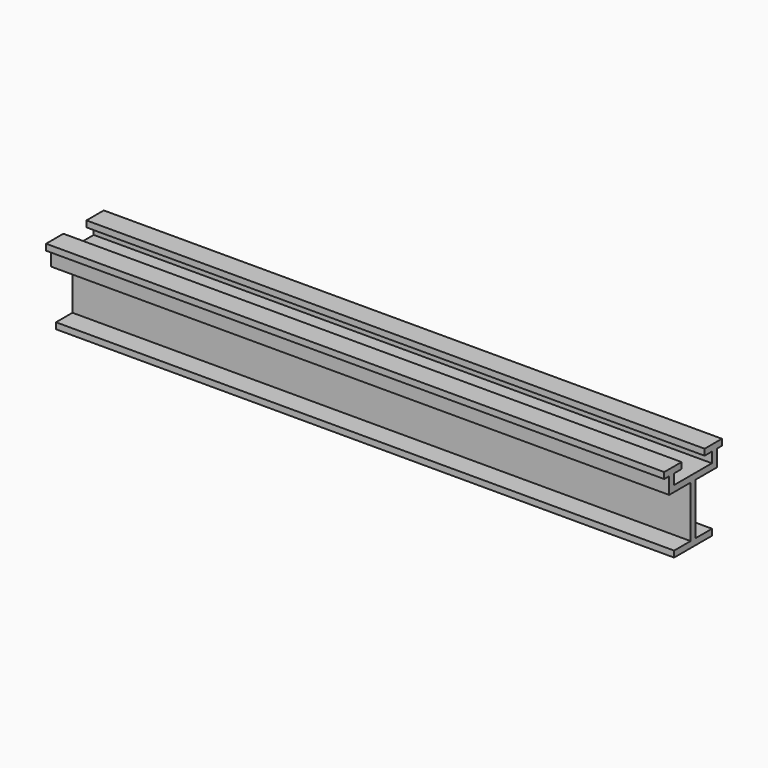
from build123d import *

# Parameters (mm, degrees)
F1_DEPTH      = 150
F1_DEPTH_BACK = 150


with BuildPart() as f1:
    # F0 (on Right) → F1 (new body, two sides)
    with BuildSketch(Plane.YZ) as f1_sk:
        Polygon((-11.5, -1.5), (11.5, -1.5), (11.5, 1.5), (1.5, 1.5), (1.5, 26.5), (14.5, 26.5), (14.5, 29.5), (14.5, 34.5), (17.5, 34.5), (17.5, 37.5), (11.401065, 37.5), (7, 37.5), (7, 34.5), (11.401065, 34.5), (11.401065, 29.5), (-11.462442, 29.5), (-11.462442, 34.5), (-7, 34.5), (-7, 37.5), (-11.401065, 37.5), (-11.462442, 37.5), (-17.5, 37.5), (-17.5, 34.5), (-14.5, 34.5), (-14.5, 29.5), (-14.5, 26.5), (-1.5, 26.5), (-1.5, 1.5), (-11.5, 1.5), align=None)
    extrude(amount=F1_DEPTH)
    extrude(f1_sk.sketch, amount=-F1_DEPTH_BACK)


solid = f1.part
